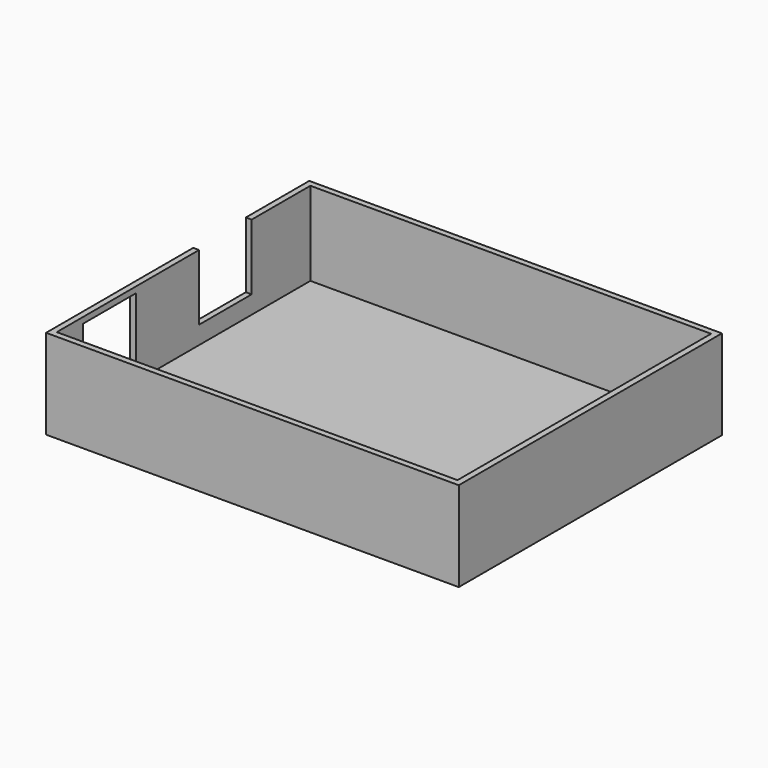
from build123d import *

# Parameters (mm, degrees)
SKETCH001_W  = 67
SKETCH001_H  = 53
PAD001_DEPTH = 15
SKETCH002_W  = 11
SKETCH002_H  = 12
PAD002_DEPTH = 10
SKETCH003_W  = 9
SKETCH003_H  = 11
PAD003_DEPTH = 10
SKETCH_W     = 69
SKETCH_H     = 55
PAD_DEPTH    = 15


with BuildPart() as body001:
    # Sketch001 → Pad001 (new body)
    with BuildSketch(Plane.XY):
        with Locations((-27.160627, -58.233018)):
            Rectangle(SKETCH001_W, SKETCH001_H)
    extrude(amount=PAD001_DEPTH)


with BuildPart() as body001_1:
    # Body001 placement: moved
    add(body001.part.moved(Location((30, 59, 1))))


with BuildPart() as body002:
    # Sketch002 → Pad002 (new body)
    with BuildSketch(Plane.YZ):
        with Locations((5.5, 6)):
            Rectangle(SKETCH002_W, SKETCH002_H)
    extrude(amount=PAD002_DEPTH)


with BuildPart() as body002_1:
    # Body002 placement: moved
    add(body002.part.moved(Location((-32, 4, 4))))


with BuildPart() as body003:
    # Sketch003 → Pad003 (new body)
    with BuildSketch(Plane.XY):
        with Locations((-41.905017, -12.711954)):
            Rectangle(SKETCH003_W, SKETCH003_H)
    extrude(amount=PAD003_DEPTH)


with BuildPart() as body003_1:
    # Body003 placement: moved
    add(body003.part.moved(Location((9, -2, 4))))


with BuildPart() as body:
    # Sketch → Pad (new body)
    with BuildSketch(Plane.XY):
        with Locations((2.865111, 0.748495)):
            Rectangle(SKETCH_W, SKETCH_H)
    extrude(amount=PAD_DEPTH)

    # Boolean: cut Body001
    add(body001_1.part, mode=Mode.SUBTRACT)

    # Boolean001: cut Body002
    add(body002_1.part, mode=Mode.SUBTRACT)

    # Boolean002: cut Body003
    add(body003_1.part, mode=Mode.SUBTRACT)


solid = body.part
